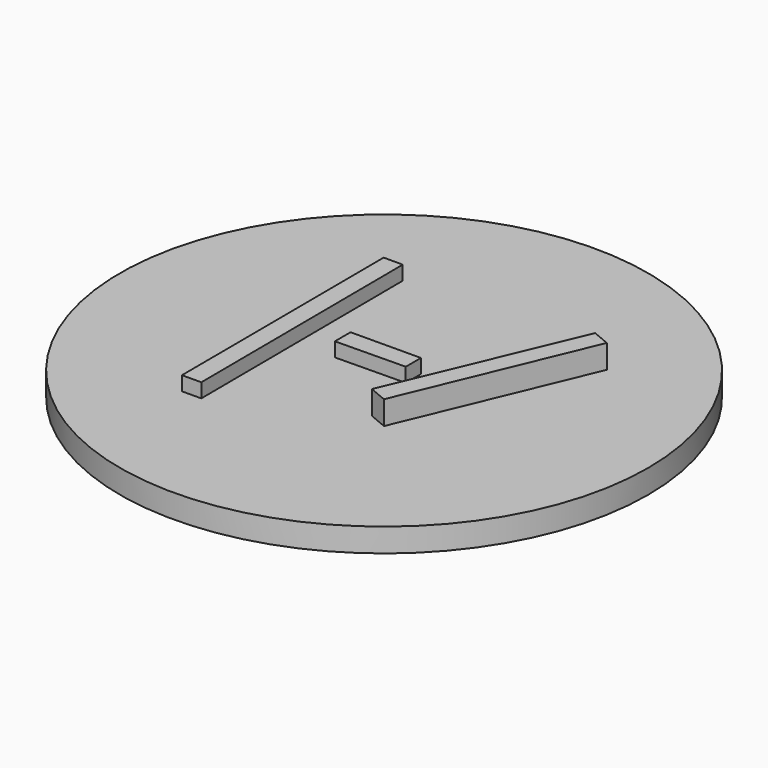
from build123d import *

# Parameters (mm, degrees)
F0_R     = 70.868501
F1_DEPTH = 6.35
F2_DEPTH = 10.16
F3_DEPTH = 12.7


with BuildPart() as f1:
    # F0 (on Top) → F1 (new body)
    with BuildSketch(Plane.XY):
        Circle(F0_R)
        Polygon((-27.191779, -33.847008), (-27.535122, 34.270629), (-22.413259, 34.270629), (-22.014963, -33.816725), align=None, mode=Mode.SUBTRACT)
        Polygon((-11.780724, 3.469003), (7.036994, 3.577667), (7.036994, -1.531884), (-11.780724, -1.798139), align=None, mode=Mode.SUBTRACT)
        Polygon((10.873231, -17.685675), (31.554632, 31.392667), (36.254622, 29.430676), (15.738306, -19.71658), align=None, mode=Mode.SUBTRACT)
    extrude(amount=F1_DEPTH)

    # F0 (on Top) → F2 (join)
    with BuildSketch(Plane.XY):
        Polygon((-22.413259, 34.270629), (-27.535122, 34.270629), (-27.191779, -33.847008), (-22.014963, -33.816725), align=None)
        Polygon((7.036994, -1.531884), (7.036994, 3.577667), (-11.780724, 3.469003), (-11.780724, -1.798139), align=None)
    extrude(amount=F2_DEPTH)

    # F0 (on Top) → F3 (join)
    with BuildSketch(Plane.XY):
        Polygon((36.254622, 29.430676), (31.554632, 31.392667), (10.873231, -17.685675), (15.738306, -19.71658), align=None)
    extrude(amount=F3_DEPTH)


solid = f1.part
